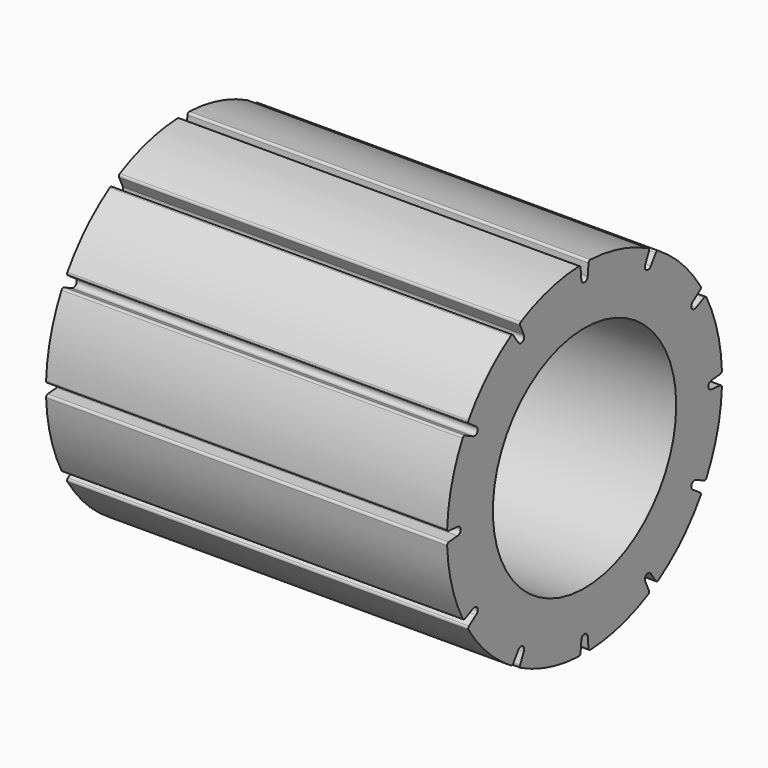
from build123d import *

# Parameters (mm, degrees)
SKETCH008_R           = 30
SKETCH008_R_2         = 20
PAD002_DEPTH          = 70
POCKET_DEPTH          = 70
POLARPATTERN_COUNT    = 12
SKETCH019_R           = 1.6
POCKET001_DEPTH       = 25
POLARPATTERN002_COUNT = 4
CHAMFER_SIZE          = 0.75


with BuildPart() as part:
    # Sketch008 → Pad002 (new body)
    with BuildSketch(Plane.YZ):
        Circle(SKETCH008_R)
        Circle(SKETCH008_R_2, mode=Mode.SUBTRACT)
    extrude(amount=-PAD002_DEPTH)

    # Sketch009 (on Face3 of Pad002) → Pocket (cut)
    with BuildSketch(Plane.YZ):
        with BuildLine():
            ThreePointArc((29.6078316758, 0.8662284607), (29.8735874261, 1.0008336631), (29.9726041, 1.2817969662))
            ThreePointArc((29.9726041, -1.2817969662), (30, 0), (29.9726041, 1.2817969662))
            ThreePointArc((29.9726041, -1.2817969662), (29.8735874261, -1.0008336631), (29.6078316758, -0.8662284607))
            Line((29.6078316758, -0.8662284607), (27.7078316758, -0.7))
            ThreePointArc((27.7078316758, 0.7), (27.0078316758, 0), (27.7078316758, -0.7))
            Line((27.7078316758, 0.7), (29.6078316758, 0.8662284607))
        make_face()
    pocket = extrude(amount=-POCKET_DEPTH, mode=Mode.SUBTRACT)

    # PolarPattern: Pocket ×12 about axis
    polarpattern_axis = Axis((0, 0, 0), (1, 0, 0))
    for i in range(1, POLARPATTERN_COUNT):
        add(pocket.rotate(polarpattern_axis, i * 360 / POLARPATTERN_COUNT), mode=Mode.SUBTRACT)

    # Sketch019 (on Face4 of PolarPattern) → Pocket001 (cut)
    with BuildSketch(Plane(origin=(-70, 0, 0), x_dir=(0, 1, 0), z_dir=(-1, 0, 0))):
        with Locations((17.6776695297, -17.6776695297)):
            Circle(SKETCH019_R)
    pocket001 = extrude(amount=-POCKET001_DEPTH, mode=Mode.SUBTRACT)

    # PolarPattern002: Pocket001 ×4 about axis
    polarpattern002_axis = Axis((-70, 0, 0), (-1, 0, 0))
    for i in range(1, POLARPATTERN002_COUNT):
        add(pocket001.rotate(polarpattern002_axis, i * 360 / POLARPATTERN002_COUNT), mode=Mode.SUBTRACT)

    # Chamfer
    chamfer_edges = [part.edges().sort_by_distance(p)[0] for p in [
        (-70, 17.67767, -16.07767),
        (-70, -16.07767, -17.67767),
        (-70, -17.67767, 16.07767),
        (-70, 16.07767, 17.67767),
    ]]
    chamfer(chamfer_edges, length=CHAMFER_SIZE)


solid = part.part
